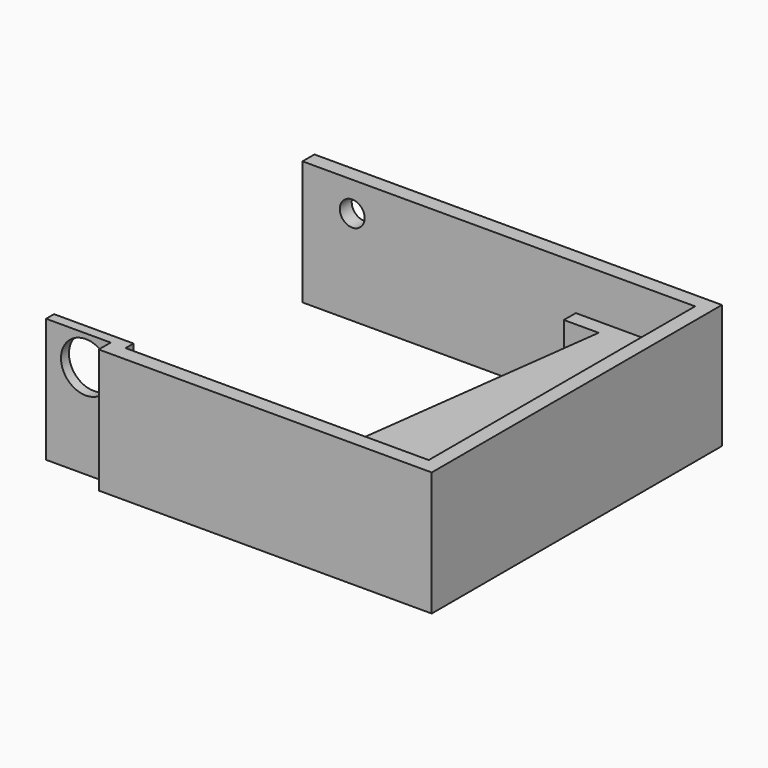
from build123d import *

# Parameters (mm, degrees)
F0_W      = 16
F0_H      = 25
F0_R      = 5
F1_DEPTH  = 2
F2_W      = 3
F2_H      = 25
F3_DEPTH  = 3
F4_W      = 3
F4_H      = 25
F5_DEPTH  = 65
F6_W      = 3
F6_H      = 25
F7_DEPTH  = 70
F10_DEPTH = 67
F11_W     = 3
F11_H     = 25
F12_DEPTH = 80
F13_R     = 2.5
F14_DEPTH = 3
F16_DEPTH = 16.001
F17_W     = 1
F17_H     = 67
F18_DEPTH = 9
F19_W     = 1
F19_H     = 73
F20_DEPTH = 25.001


with BuildPart() as f1:
    # F0 (on Front) → F1 (new body)
    with BuildSketch(Plane.XZ):
        with Locations((-20.477814, -3.461555)):
            Rectangle(F0_W, F0_H)
        with Locations((-20.477814, 3.038445)):
            Circle(F0_R, mode=Mode.SUBTRACT)
    extrude(amount=F1_DEPTH)

    # F2 (on face) → F3 (join)
    with BuildSketch(Plane.XZ.offset(2)):
        with Locations((-13.977814, -3.461555)):
            Rectangle(F2_W, F2_H)
    extrude(amount=F3_DEPTH)

    # F4 (on face) → F5 (join)
    with BuildSketch(Plane.YZ.offset(-12.477814)):
        with Locations((-3.5, -3.461555)):
            Rectangle(F4_W, F4_H)
    extrude(amount=F5_DEPTH)

    # F6 (on face) → F7 (join)
    with BuildSketch(Plane(origin=(0, -2, 0), x_dir=(-1, 0, 0), z_dir=(0, 1, 0))):
        with Locations((-51.022186, -3.461555)):
            Rectangle(F6_W, F6_H)
    extrude(amount=F7_DEPTH)

    # F9 (on face) → F10 (join)
    with BuildSketch(Plane(origin=(0, -2, 0), x_dir=(-1, 0, 0), z_dir=(0, 1, 0))):
        Polygon((-49.522186, 0.038445), (-49.522186, -15.961555), (-44.522186, -15.961555), (-24.522186, -4.961555), (-24.522186, 0.038445), align=None)
    extrude(amount=F10_DEPTH)

    # F11 (on face) → F12 (join)
    with BuildSketch(Plane(origin=(49.522186, 0, 0), x_dir=(0, -1, 0), z_dir=(-1, 0, 0))):
        with Locations((-66.5, -3.461555)):
            Rectangle(F11_W, F11_H)
    extrude(amount=F12_DEPTH)

    # F13 (on face) → F14 (cut)
    with BuildSketch(Plane(origin=(0, 68, 0), x_dir=(-1, 0, 0), z_dir=(0, 1, 0))):
        with Locations((20.477814, 3.038445)):
            Circle(F13_R)
    extrude(amount=-F14_DEPTH, mode=Mode.SUBTRACT)

    # F15 (on face) → F16 (cut, through all)
    with BuildSketch(Plane.XY.offset(0.038445)):
        Polygon((31.522186, 62), (24.522186, 62), (24.522186, 8), align=None)
    extrude(amount=-F16_DEPTH, mode=Mode.SUBTRACT)

    # F17 (on face) → F18 (join, through all)
    with BuildSketch(Plane.XY.offset(0.038445)):
        with Locations((49.022186, 31.5)):
            Rectangle(F17_W, F17_H)
    extrude(amount=F18_DEPTH)

    # F19 (on face) → F20 (cut, through all)
    with BuildSketch(Plane.XY.offset(9.038445)):
        with Locations((52.022186, 31.5)):
            Rectangle(F19_W, F19_H)
    extrude(amount=-F20_DEPTH, mode=Mode.SUBTRACT)


solid = f1.part
